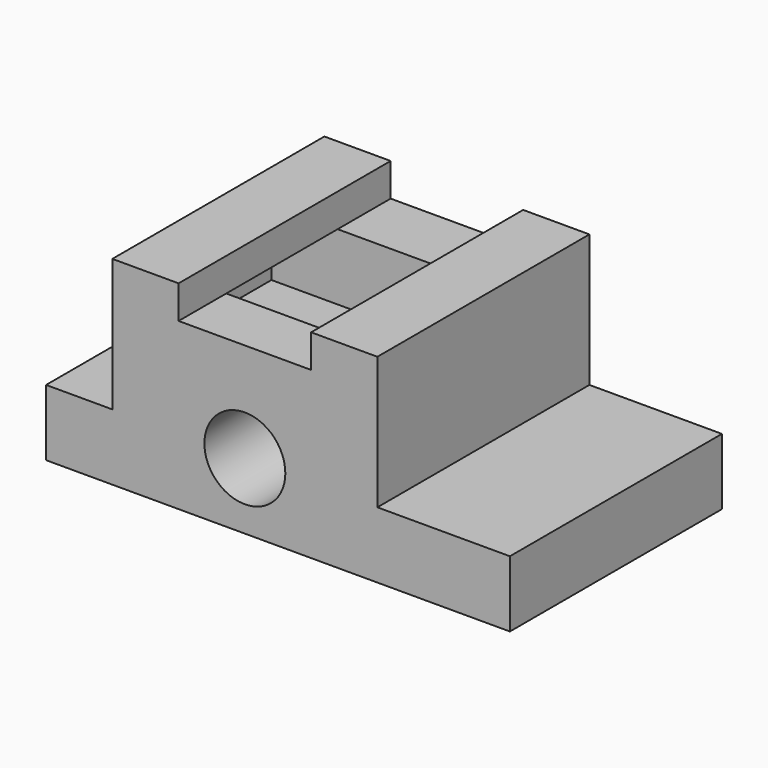
from build123d import *

# Parameters (mm, degrees)
F0_W      = 88.9
F0_H      = 38.1
F1_DEPTH  = 50.8
F2_W      = 25.4
F2_H      = 25.4
F3_DEPTH  = 50.801
F4_W      = 12.7
F4_H      = 25.4
F5_DEPTH  = 50.801
F6_W      = 25.4
F6_H      = 6.35
F7_DEPTH  = 50.801
F9_W      = 50.733156
F9_H      = 26.686712
F10_DEPTH = 12.7
F8_R      = 7.757908
F11_DEPTH = 50.801


with BuildPart() as f1:
    # F0 (on Front) → F1 (new body)
    with BuildSketch(Plane.XZ):
        Rectangle(F0_W, F0_H)
    extrude(amount=F1_DEPTH)

    # F2 (on face) → F3 (cut, through all)
    with BuildSketch(Plane.XZ.offset(50.8)):
        with Locations((31.75, 6.35)):
            Rectangle(F2_W, F2_H)
    extrude(amount=-F3_DEPTH, mode=Mode.SUBTRACT)

    # F4 (on face) → F5 (cut, through all)
    with BuildSketch(Plane(origin=(0, 0, 0), x_dir=(-1, 0, 0), z_dir=(0, 1, 0))):
        with Locations((38.1, 6.35)):
            Rectangle(F4_W, F4_H)
    extrude(amount=-F5_DEPTH, mode=Mode.SUBTRACT)

    # F6 (on face) → F7 (cut, through all)
    with BuildSketch(Plane.XZ.offset(50.8)):
        with Locations((-6.35, 15.875)):
            Rectangle(F6_W, F6_H)
    extrude(amount=-F7_DEPTH, mode=Mode.SUBTRACT)

    # F9 (on face) → F10 (cut)
    with BuildSketch(Plane.XY.offset(12.7)):
        with Locations((-6.366711, -26.043356)):
            Rectangle(F9_W, F9_H)
    extrude(amount=-F10_DEPTH, mode=Mode.SUBTRACT)

    # F8 (on face) → F11 (cut, through all)
    with BuildSketch(Plane.XZ.offset(50.8)):
        with Locations((-6.35, -6.35)):
            Circle(F8_R)
    extrude(amount=-F11_DEPTH, mode=Mode.SUBTRACT)


solid = f1.part
